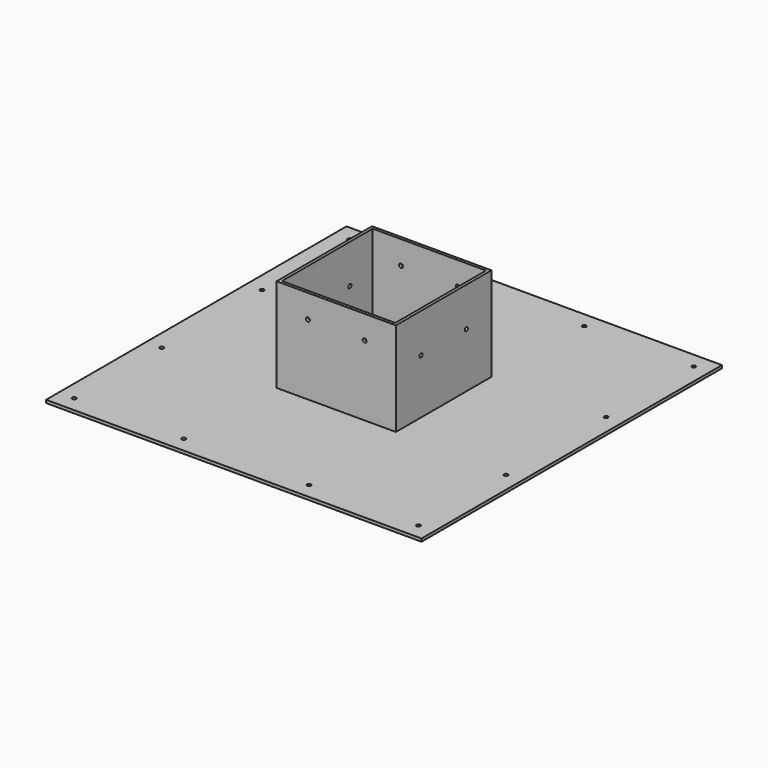
from build123d import *

# Parameters (mm, degrees)
F0_W     = 609.6
F0_H     = 609.6
F1_DEPTH = 4.7625
F2_W     = 193.675
F2_H     = 193.675
F2_W_2   = 184.15
F2_H_2   = 184.15
F3_DEPTH = 152.4
F4_R     = 3.175
F5_DEPTH = 25.4
F6_R     = 3.175
F7_DEPTH = 401.6385
F8_R     = 3.175
F9_DEPTH = 401.6385


with BuildPart() as f1:
    # F0 (on Top) → F1 (new body)
    with BuildSketch(Plane.XY):
        with Locations((-304.8, 304.8)):
            Rectangle(F0_W, F0_H)
    extrude(amount=F1_DEPTH)

    # F2 (on face) → F3 (join)
    with BuildSketch(Plane.XY.offset(4.7625)):
        with Locations((-304.8, 304.8)):
            Rectangle(F2_W, F2_H)
        with Locations((-304.8, 304.8)):
            Rectangle(F2_W_2, F2_H_2, mode=Mode.SUBTRACT)
    extrude(amount=F3_DEPTH)

    # F4 (on face) → F5 (cut)
    with BuildSketch(Plane.XY.offset(4.7625)):
        with Locations((-25.4, 584.2)):
            Circle(F4_R)
        with Locations((-25.4, 25.4)):
            Circle(F4_R)
        with Locations((-584.2, 584.2)):
            Circle(F4_R)
        with Locations((-584.2, 25.4)):
            Circle(F4_R)
        with Locations((-25.4, 406.4)):
            Circle(F4_R)
        with Locations((-25.4, 203.2)):
            Circle(F4_R)
        with Locations((-584.2, 406.4)):
            Circle(F4_R)
        with Locations((-584.2, 203.2)):
            Circle(F4_R)
        with Locations((-406.4, 25.4)):
            Circle(F4_R)
        with Locations((-406.4, 584.2)):
            Circle(F4_R)
        with Locations((-203.2, 25.4)):
            Circle(F4_R)
        with Locations((-203.2, 584.2)):
            Circle(F4_R)
    extrude(amount=-F5_DEPTH, mode=Mode.SUBTRACT)

    # F6 (on face) → F7 (cut, through all)
    with BuildSketch(Plane.XZ.offset(-207.9625)):
        with Locations((-350.8375, 119.0625)):
            Circle(F6_R)
        with Locations((-258.7625, 119.0625)):
            Circle(F6_R)
    extrude(amount=-F7_DEPTH, mode=Mode.SUBTRACT)

    # F8 (on face) → F9 (cut, through all)
    with BuildSketch(Plane(origin=(-401.6375, 0, 0), x_dir=(0, -1, 0), z_dir=(-1, 0, 0))):
        with Locations((-258.7625, 93.6625)):
            Circle(F8_R)
        with Locations((-350.8375, 93.6625)):
            Circle(F8_R)
    extrude(amount=-F9_DEPTH, mode=Mode.SUBTRACT)


solid = f1.part
